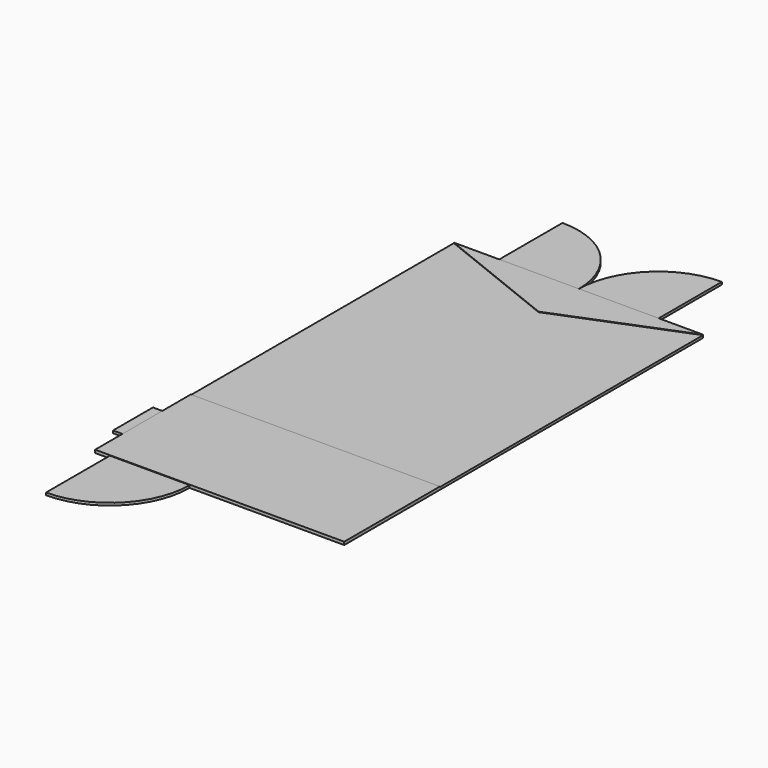
from build123d import *

# Parameters (mm, degrees)
F0_W     = 100
F0_H     = 500
F1_DEPTH = 25
F2_DEPTH = 30
F3_DEPTH = 30


with BuildPart() as f1:
    # F0 (on Top) → F1 (new body)
    with BuildSketch(Plane.XY):
        with BuildLine():
            Line((450, 5300), (450, 4500))
            Line((450, 4500), (1250, 4500))
            ThreePointArc((1250, 4500), (1015.685425, 5065.685425), (450, 5300))
        make_face()
        with BuildLine():
            Line((1250, 4500), (2050, 4500))
            Line((2050, 4500), (2050, 5300))
            ThreePointArc((2050, 5300), (1484.314575, 5065.685425), (1250, 4500))
        make_face()
        Polygon((0, 4500), (0, 1200), (2500, 1200), (2500, 4500), (1250, 4000), align=None)
        with Locations((-50, 600)):
            Rectangle(F0_W, F0_H)
        with BuildLine():
            Line((947.952855, 0), (147.952855, 0))
            Line((147.952855, 0), (147.952855, -800))
            ThreePointArc((147.952855, -800), (713.63828, -565.685425), (947.952855, 0))
        make_face()
    extrude(amount=F1_DEPTH)

    # F0 (on Top) → F2 (join)
    with BuildSketch(Plane.XY):
        Polygon((450, 4500), (0, 4500), (1250, 4000), (2500, 4500), (2050, 4500), (1250, 4500), align=None)
    extrude(amount=F2_DEPTH)

    # F0 (on Top) → F3 (join)
    with BuildSketch(Plane.XY):
        Polygon((0, 350), (0, 0), (147.952855, 0), (947.952855, 0), (2500, 0), (2500, 1200), (0, 1200), (0, 850), align=None)
    extrude(amount=F3_DEPTH)


solid = f1.part
